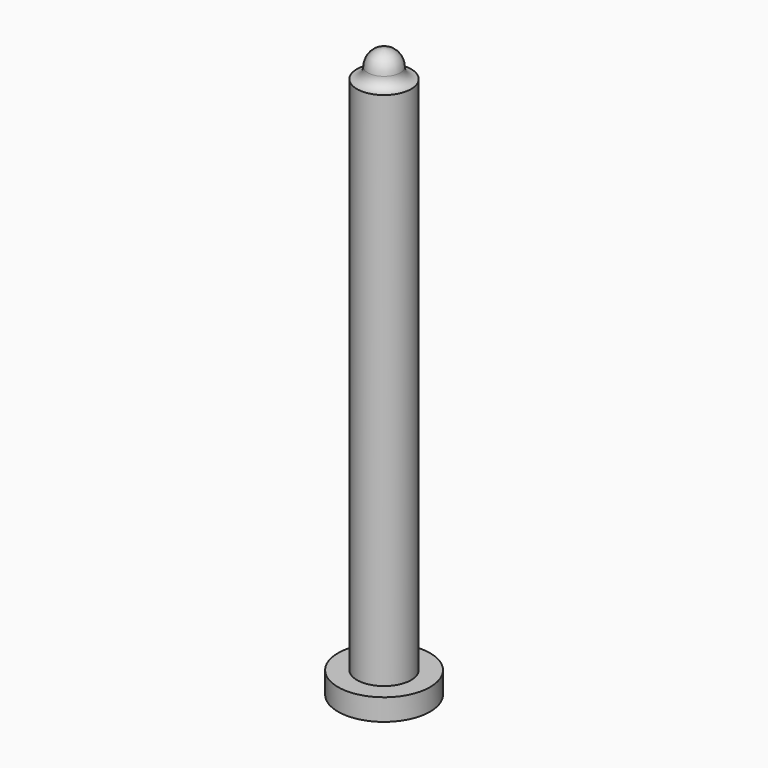
from build123d import *

# Parameters (mm, degrees)
F0_R     = 8.5
F1_DEPTH = 4
F2_R     = 5
F3_DEPTH = 100


with BuildPart() as f1:
    # F0 (on Top) → F1 (new body)
    with BuildSketch(Plane.XY):
        Circle(F0_R)
    extrude(amount=F1_DEPTH)

    # F2 (on Top) → F3 (join)
    with BuildSketch(Plane.XY):
        Circle(F2_R)
    extrude(amount=F3_DEPTH)

    # F4 (on Right) → F5 (revolve)
    with BuildSketch(Plane.YZ):
        with BuildLine():
            Line((3, 102), (0, 102))
            Line((0, 102), (0, 100))
            Line((0, 100), (5, 100))
            ThreePointArc((5, 100), (3.585786, 100.585786), (3, 102))
        make_face()
    revolve(axis=Axis((0, 0, 101), (0, 0, -1)))

    # F6 (on Right) → F7 (revolve)
    with BuildSketch(Plane.YZ):
        with BuildLine():
            Line((0, 105), (0, 102))
            Line((0, 102), (3, 102))
            ThreePointArc((3, 102), (2.12132, 104.12132), (0, 105))
        make_face()
    revolve(axis=Axis((0, 0, 103.5), (0, 0, 1)))


solid = f1.part
